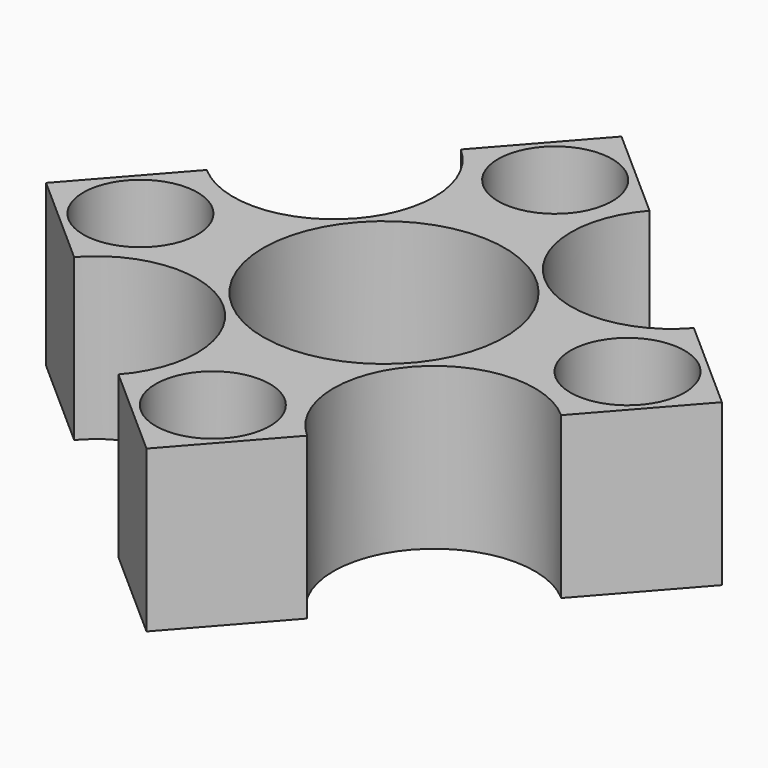
from build123d import *

# Parameters (mm, degrees)
F1_DEPTH = 12.7
F2_D     = 19.05
F3_D     = 9


with BuildPart() as f1:
    # F0 (on Top) → F1 (new body)
    with BuildSketch(Plane.XY):
        with BuildLine():
            Line((5.9523138316, 18.7402282516), (-1.5792061086, 25.3897088273))
            Line((-1.5792061086, 25.3897088273), (-8.2286866843, 17.858188887))
            ThreePointArc((-8.2286866843, 17.858188887), (-7.5315199403, 6.6494805757), (-18.7402282516, 5.9523138316))
            Line((-18.7402282516, 5.9523138316), (-25.3897088273, -1.5792061086))
            Line((-25.3897088273, -1.5792061086), (-17.858188887, -8.2286866843))
            ThreePointArc((-17.858188887, -8.2286866843), (-6.6494805757, -7.5315199403), (-5.9523138316, -18.7402282516))
            Line((-5.9523138316, -18.7402282516), (1.5792061086, -25.3897088273))
            Line((1.5792061086, -25.3897088273), (8.2286866843, -17.858188887))
            ThreePointArc((8.2286866843, -17.858188887), (7.5315199403, -6.6494805757), (18.7402282516, -5.9523138316))
            Line((18.7402282516, -5.9523138316), (25.3897088273, 1.5792061086))
            Line((25.3897088273, 1.5792061086), (17.858188887, 8.2286866843))
            ThreePointArc((17.858188887, 8.2286866843), (6.6494805757, 7.5315199403), (5.9523138316, 18.7402282516))
        make_face()
    extrude(amount=F1_DEPTH)

    # F2 (through all)
    with Locations(Plane(origin=(0, 0, 0), x_dir=(1, 0, 0), z_dir=(0, 0, -1))):
        with Locations((0, 0)):
            Hole(F2_D / 2)

    # F3 (through all)
    with Locations(Plane(origin=(0, 0, 0), x_dir=(1, 0, 0), z_dir=(0, 0, -1))):
        with Locations((18.2992085693, -1.1381864263), (-1.1381864263, -18.2992085693), (-18.2992085693, 1.1381864263), (1.1381864263, 18.2992085693)):
            Hole(F3_D / 2)


solid = f1.part
